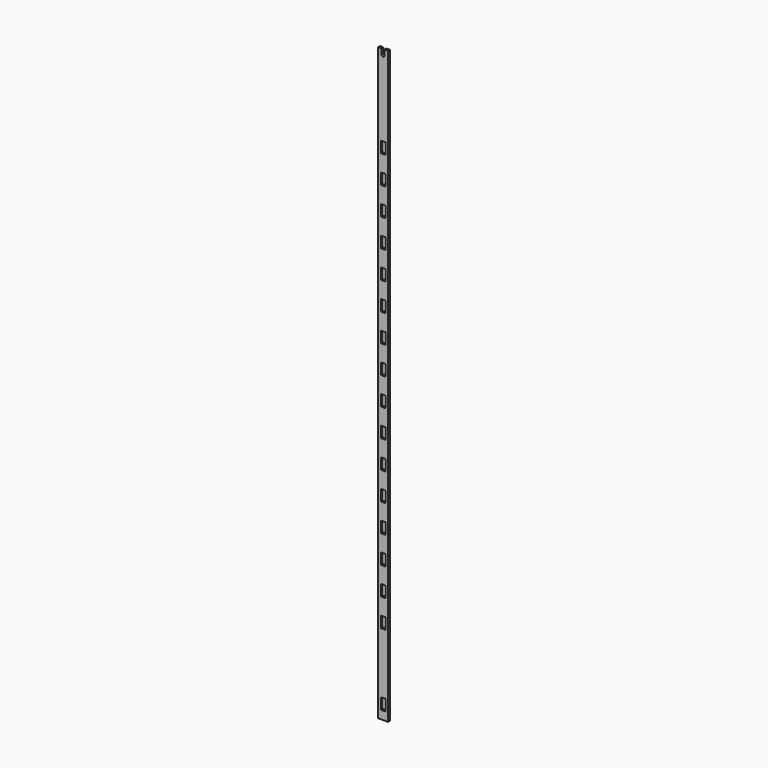
from build123d import *

# Parameters (mm, degrees)
F0_W     = 16
F0_H     = 40
F1_DEPTH = 8


with BuildPart() as f1:
    # F0 (on Front) → F1 (new body)
    with BuildSketch(Plane.XZ):
        with BuildLine():
            Line((12.25, 0), (0, 0))
            Line((0, 0), (0, -2120))
            Line((0, -2120), (35, -2120))
            Line((35, -2120), (35, 0))
            Line((35, 0), (22.75, 0))
            Line((22.75, 0), (22.75, -19.75))
            ThreePointArc((22.75, -19.75), (17.5, -25), (12.25, -19.75))
            Line((12.25, -19.75), (12.25, 0))
        make_face()
        with Locations((17.5, -2070)):
            Rectangle(F0_W, F0_H, mode=Mode.SUBTRACT)
        with Locations((17.5, -1812.2)):
            Rectangle(F0_W, F0_H, mode=Mode.SUBTRACT)
        with Locations((17.5, -1712.2)):
            Rectangle(F0_W, F0_H, mode=Mode.SUBTRACT)
        with Locations((17.5, -1612.2)):
            Rectangle(F0_W, F0_H, mode=Mode.SUBTRACT)
        with Locations((17.5, -1512.2)):
            Rectangle(F0_W, F0_H, mode=Mode.SUBTRACT)
        with Locations((17.5, -1412.2)):
            Rectangle(F0_W, F0_H, mode=Mode.SUBTRACT)
        with Locations((17.5, -1312.2)):
            Rectangle(F0_W, F0_H, mode=Mode.SUBTRACT)
        with Locations((17.5, -1212.2)):
            Rectangle(F0_W, F0_H, mode=Mode.SUBTRACT)
        with Locations((17.5, -1112.2)):
            Rectangle(F0_W, F0_H, mode=Mode.SUBTRACT)
        with Locations((17.5, -1012.2)):
            Rectangle(F0_W, F0_H, mode=Mode.SUBTRACT)
        with Locations((17.5, -912.2)):
            Rectangle(F0_W, F0_H, mode=Mode.SUBTRACT)
        with Locations((17.5, -812.2)):
            Rectangle(F0_W, F0_H, mode=Mode.SUBTRACT)
        with Locations((17.5, -712.2)):
            Rectangle(F0_W, F0_H, mode=Mode.SUBTRACT)
        with Locations((17.5, -612.2)):
            Rectangle(F0_W, F0_H, mode=Mode.SUBTRACT)
        with Locations((17.5, -512.2)):
            Rectangle(F0_W, F0_H, mode=Mode.SUBTRACT)
        with Locations((17.5, -412.2)):
            Rectangle(F0_W, F0_H, mode=Mode.SUBTRACT)
        with Locations((17.5, -312.2)):
            Rectangle(F0_W, F0_H, mode=Mode.SUBTRACT)
    extrude(amount=F1_DEPTH)


solid = f1.part
